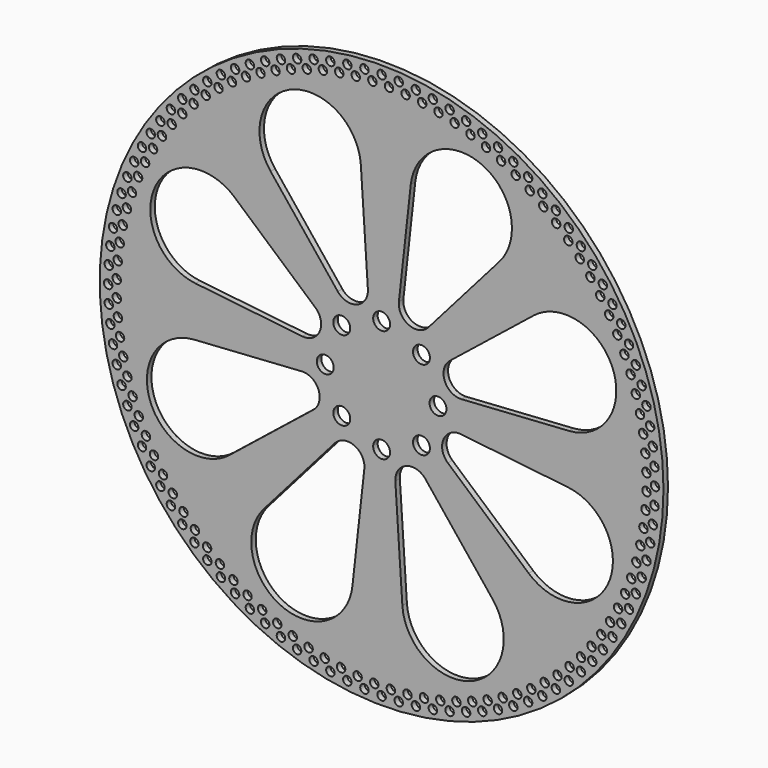
from build123d import *

# Parameters (mm, degrees)
F0_R     = 100
F0_R_2   = 1.5
F0_R_3   = 3
F1_DEPTH = 2


with BuildPart() as f1:
    # F0 (on Front) → F1 (new body)
    with BuildSketch(Plane.XZ):
        Circle(F0_R)
        with Locations((-51.975199, -81.899809)):
            Circle(F0_R_2, mode=Mode.SUBTRACT)
        with Locations((-57.015169, -78.474648)):
            Circle(F0_R_2, mode=Mode.SUBTRACT)
        with Locations((-52.564133, -77.929532)):
            Circle(F0_R_2, mode=Mode.SUBTRACT)
        with Locations((-78.474648, -57.015169)):
            Circle(F0_R_2, mode=Mode.SUBTRACT)
        with Locations((-81.899809, -51.975199)):
            Circle(F0_R_2, mode=Mode.SUBTRACT)
        with Locations((-77.560669, -53.106898)):
            Circle(F0_R_2, mode=Mode.SUBTRACT)
        with Locations((-66.401069, -70.709957)):
            Circle(F0_R_2, mode=Mode.SUBTRACT)
        with Locations((-70.709957, -66.401069)):
            Circle(F0_R_2, mode=Mode.SUBTRACT)
        with Locations((-66.235616, -66.699649)):
            Circle(F0_R_2, mode=Mode.SUBTRACT)
        with Locations((-61.830127, -74.739785)):
            Circle(F0_R_2, mode=Mode.SUBTRACT)
        with Locations((-57.353645, -74.475226)):
            Circle(F0_R_2, mode=Mode.SUBTRACT)
        with Locations((-61.916809, -70.727001)):
            Circle(F0_R_2, mode=Mode.SUBTRACT)
        with Locations((-74.739785, -61.830127)):
            Circle(F0_R_2, mode=Mode.SUBTRACT)
        with Locations((-70.293021, -62.409064)):
            Circle(F0_R_2, mode=Mode.SUBTRACT)
        with Locations((-74.073011, -57.872179)):
            Circle(F0_R_2, mode=Mode.SUBTRACT)
        with Locations((-41.300591, -87.768224)):
            Circle(F0_R_2, mode=Mode.SUBTRACT)
        with Locations((-35.708082, -90.188319)):
            Circle(F0_R_2, mode=Mode.SUBTRACT)
        with Locations((-31.532448, -88.553401)):
            Circle(F0_R_2, mode=Mode.SUBTRACT)
        with Locations((-29.974648, -92.252482)):
            Circle(F0_R_2, mode=Mode.SUBTRACT)
        with Locations((-25.909911, -90.358599)):
            Circle(F0_R_2, mode=Mode.SUBTRACT)
        with Locations((-46.730106, -85.001748)):
            Circle(F0_R_2, mode=Mode.SUBTRACT)
        with Locations((-42.382489, -83.903067)):
            Circle(F0_R_2, mode=Mode.SUBTRACT)
        with Locations((-47.567174, -81.076285)):
            Circle(F0_R_2, mode=Mode.SUBTRACT)
        with Locations((-37.03054, -86.398722)):
            Circle(F0_R_2, mode=Mode.SUBTRACT)
        with Locations((-24.122919, -93.952567)):
            Circle(F0_R_2, mode=Mode.SUBTRACT)
        with Locations((-18.175988, -95.281863)):
            Circle(F0_R_2, mode=Mode.SUBTRACT)
        with Locations((-20.185121, -91.807194)):
            Circle(F0_R_2, mode=Mode.SUBTRACT)
        with Locations((-14.380669, -92.893468)):
            Circle(F0_R_2, mode=Mode.SUBTRACT)
        with Locations((-12.157324, -96.235126)):
            Circle(F0_R_2, mode=Mode.SUBTRACT)
        with Locations((-6.09068, -96.808593)):
            Circle(F0_R_2, mode=Mode.SUBTRACT)
        with Locations((-2.624634, -93.963351)):
            Circle(F0_R_2, mode=Mode.SUBTRACT)
        with Locations((-8.519463, -93.613133)):
            Circle(F0_R_2, mode=Mode.SUBTRACT)
        with BuildLine():
            ThreePointArc((-16.611307, -23.496052), (-9.679885, -21.961326), (-6.136422, -28.113063))
            Line((-6.136422, -28.113063), (-10.342696, -66.038085))
            ThreePointArc((-10.342696, -66.038085), (-35.492911, -80.524861), (-41.767351, -52.187052))
            Line((-41.767351, -52.187052), (-16.611307, -23.496052))
        make_face(mode=Mode.SUBTRACT)
        with Locations((-87.768224, -41.300591)):
            Circle(F0_R_2, mode=Mode.SUBTRACT)
        with Locations((-85.001748, -46.730106)):
            Circle(F0_R_2, mode=Mode.SUBTRACT)
        with Locations((-80.74223, -48.132029)):
            Circle(F0_R_2, mode=Mode.SUBTRACT)
        with Locations((-83.605139, -42.967205)):
            Circle(F0_R_2, mode=Mode.SUBTRACT)
        with Locations((-86.138097, -37.632809)):
            Circle(F0_R_2, mode=Mode.SUBTRACT)
        with Locations((-90.188319, -35.708082)):
            Circle(F0_R_2, mode=Mode.SUBTRACT)
        with Locations((-88.331106, -32.149893)):
            Circle(F0_R_2, mode=Mode.SUBTRACT)
        with Locations((-92.252482, -29.974648)):
            Circle(F0_R_2, mode=Mode.SUBTRACT)
        with Locations((-90.175514, -26.540097)):
            Circle(F0_R_2, mode=Mode.SUBTRACT)
        with Locations((-93.952567, -24.122919)):
            Circle(F0_R_2, mode=Mode.SUBTRACT)
        with Locations((-91.664039, -20.825559)):
            Circle(F0_R_2, mode=Mode.SUBTRACT)
        with Locations((-95.281863, -18.175988)):
            Circle(F0_R_2, mode=Mode.SUBTRACT)
        with Locations((-92.790809, -15.028832)):
            Circle(F0_R_2, mode=Mode.SUBTRACT)
        with Locations((-96.235126, -12.157324)):
            Circle(F0_R_2, mode=Mode.SUBTRACT)
        with Locations((-93.551376, -9.172793)):
            Circle(F0_R_2, mode=Mode.SUBTRACT)
        with Locations((-96.808593, -6.09068)):
            Circle(F0_R_2, mode=Mode.SUBTRACT)
        with Locations((-93.942738, -3.280553)):
            Circle(F0_R_2, mode=Mode.SUBTRACT)
        with BuildLine():
            ThreePointArc((-28.360186, -4.86825), (-22.373715, -8.68429), (-24.218043, -15.539832))
            Line((-24.218043, -15.539832), (-54.009368, -39.382587))
            ThreePointArc((-54.009368, -39.382587), (-82.036953, -31.842397), (-66.435795, -7.367842))
            Line((-66.435795, -7.367842), (-28.360186, -4.86825))
        make_face(mode=Mode.SUBTRACT)
        with Locations((-14.142136, -14.142136)):
            Circle(F0_R_3, mode=Mode.SUBTRACT)
        with Locations((0, -97)):
            Circle(F0_R_2, mode=Mode.SUBTRACT)
        with Locations((6.09068, -96.808593)):
            Circle(F0_R_2, mode=Mode.SUBTRACT)
        with Locations((3.280553, -93.942738)):
            Circle(F0_R_2, mode=Mode.SUBTRACT)
        with Locations((12.157324, -96.235126)):
            Circle(F0_R_2, mode=Mode.SUBTRACT)
        with Locations((9.172793, -93.551376)):
            Circle(F0_R_2, mode=Mode.SUBTRACT)
        with Locations((18.175988, -95.281863)):
            Circle(F0_R_2, mode=Mode.SUBTRACT)
        with Locations((24.122919, -93.952567)):
            Circle(F0_R_2, mode=Mode.SUBTRACT)
        with Locations((15.028832, -92.790809)):
            Circle(F0_R_2, mode=Mode.SUBTRACT)
        with Locations((20.825559, -91.664039)):
            Circle(F0_R_2, mode=Mode.SUBTRACT)
        with Locations((29.974648, -92.252482)):
            Circle(F0_R_2, mode=Mode.SUBTRACT)
        with Locations((26.540097, -90.175514)):
            Circle(F0_R_2, mode=Mode.SUBTRACT)
        with Locations((32.149893, -88.331106)):
            Circle(F0_R_2, mode=Mode.SUBTRACT)
        with Locations((35.708082, -90.188319)):
            Circle(F0_R_2, mode=Mode.SUBTRACT)
        with Locations((41.300591, -87.768224)):
            Circle(F0_R_2, mode=Mode.SUBTRACT)
        with Locations((37.632809, -86.138097)):
            Circle(F0_R_2, mode=Mode.SUBTRACT)
        with Locations((42.967205, -83.605139)):
            Circle(F0_R_2, mode=Mode.SUBTRACT)
        with Locations((46.730106, -85.001748)):
            Circle(F0_R_2, mode=Mode.SUBTRACT)
        with Locations((48.132029, -80.74223)):
            Circle(F0_R_2, mode=Mode.SUBTRACT)
        with BuildLine():
            ThreePointArc((4.86825, -28.360186), (8.68429, -22.373715), (15.539832, -24.218043))
            Line((15.539832, -24.218043), (39.382587, -54.009368))
            ThreePointArc((39.382587, -54.009368), (31.842397, -82.036953), (7.367842, -66.435795))
            Line((7.367842, -66.435795), (4.86825, -28.360186))
        make_face(mode=Mode.SUBTRACT)
        with Locations((51.975199, -81.899809)):
            Circle(F0_R_2, mode=Mode.SUBTRACT)
        with Locations((53.106898, -77.560669)):
            Circle(F0_R_2, mode=Mode.SUBTRACT)
        with Locations((57.015169, -78.474648)):
            Circle(F0_R_2, mode=Mode.SUBTRACT)
        with Locations((57.872179, -74.073011)):
            Circle(F0_R_2, mode=Mode.SUBTRACT)
        with Locations((61.830127, -74.739785)):
            Circle(F0_R_2, mode=Mode.SUBTRACT)
        with Locations((62.409064, -70.293021)):
            Circle(F0_R_2, mode=Mode.SUBTRACT)
        with Locations((66.401069, -70.709957)):
            Circle(F0_R_2, mode=Mode.SUBTRACT)
        with Locations((66.699649, -66.235616)):
            Circle(F0_R_2, mode=Mode.SUBTRACT)
        with Locations((70.709957, -66.401069)):
            Circle(F0_R_2, mode=Mode.SUBTRACT)
        with Locations((70.727001, -61.916809)):
            Circle(F0_R_2, mode=Mode.SUBTRACT)
        with Locations((74.739785, -61.830127)):
            Circle(F0_R_2, mode=Mode.SUBTRACT)
        with Locations((74.475226, -57.353645)):
            Circle(F0_R_2, mode=Mode.SUBTRACT)
        with Locations((78.474648, -57.015169)):
            Circle(F0_R_2, mode=Mode.SUBTRACT)
        with Locations((77.929532, -52.564133)):
            Circle(F0_R_2, mode=Mode.SUBTRACT)
        with Locations((81.899809, -51.975199)):
            Circle(F0_R_2, mode=Mode.SUBTRACT)
        with Locations((0, -20)):
            Circle(F0_R_3, mode=Mode.SUBTRACT)
        with Locations((14.142136, -14.142136)):
            Circle(F0_R_3, mode=Mode.SUBTRACT)
        with BuildLine():
            ThreePointArc((23.496052, -16.611307), (21.961326, -9.679885), (28.113063, -6.136422))
            Line((28.113063, -6.136422), (66.038085, -10.342696))
            ThreePointArc((66.038085, -10.342696), (80.524861, -35.492911), (52.187052, -41.767351))
            Line((52.187052, -41.767351), (23.496052, -16.611307))
        make_face(mode=Mode.SUBTRACT)
        with Locations((81.076285, -47.567174)):
            Circle(F0_R_2, mode=Mode.SUBTRACT)
        with Locations((85.001748, -46.730106)):
            Circle(F0_R_2, mode=Mode.SUBTRACT)
        with Locations((83.903067, -42.382489)):
            Circle(F0_R_2, mode=Mode.SUBTRACT)
        with Locations((87.768224, -41.300591)):
            Circle(F0_R_2, mode=Mode.SUBTRACT)
        with Locations((86.398722, -37.03054)):
            Circle(F0_R_2, mode=Mode.SUBTRACT)
        with Locations((90.188319, -35.708082)):
            Circle(F0_R_2, mode=Mode.SUBTRACT)
        with Locations((88.553401, -31.532448)):
            Circle(F0_R_2, mode=Mode.SUBTRACT)
        with Locations((92.252482, -29.974648)):
            Circle(F0_R_2, mode=Mode.SUBTRACT)
        with Locations((90.358599, -25.909911)):
            Circle(F0_R_2, mode=Mode.SUBTRACT)
        with Locations((91.807194, -20.185121)):
            Circle(F0_R_2, mode=Mode.SUBTRACT)
        with Locations((93.952567, -24.122919)):
            Circle(F0_R_2, mode=Mode.SUBTRACT)
        with Locations((92.893468, -14.380669)):
            Circle(F0_R_2, mode=Mode.SUBTRACT)
        with Locations((95.281863, -18.175988)):
            Circle(F0_R_2, mode=Mode.SUBTRACT)
        with Locations((93.613133, -8.519463)):
            Circle(F0_R_2, mode=Mode.SUBTRACT)
        with Locations((96.235126, -12.157324)):
            Circle(F0_R_2, mode=Mode.SUBTRACT)
        with Locations((96.808593, -6.09068)):
            Circle(F0_R_2, mode=Mode.SUBTRACT)
        with Locations((93.963351, -2.624634)):
            Circle(F0_R_2, mode=Mode.SUBTRACT)
        with Locations((-97, 0)):
            Circle(F0_R_2, mode=Mode.SUBTRACT)
        with Locations((-93.963351, 2.624634)):
            Circle(F0_R_2, mode=Mode.SUBTRACT)
        with Locations((-96.808593, 6.09068)):
            Circle(F0_R_2, mode=Mode.SUBTRACT)
        with Locations((-96.235126, 12.157324)):
            Circle(F0_R_2, mode=Mode.SUBTRACT)
        with Locations((-93.613133, 8.519463)):
            Circle(F0_R_2, mode=Mode.SUBTRACT)
        with Locations((-95.281863, 18.175988)):
            Circle(F0_R_2, mode=Mode.SUBTRACT)
        with Locations((-92.893468, 14.380669)):
            Circle(F0_R_2, mode=Mode.SUBTRACT)
        with Locations((-93.952567, 24.122919)):
            Circle(F0_R_2, mode=Mode.SUBTRACT)
        with Locations((-91.807194, 20.185121)):
            Circle(F0_R_2, mode=Mode.SUBTRACT)
        with Locations((-90.358599, 25.909911)):
            Circle(F0_R_2, mode=Mode.SUBTRACT)
        with Locations((-92.252482, 29.974648)):
            Circle(F0_R_2, mode=Mode.SUBTRACT)
        with Locations((-88.553401, 31.532448)):
            Circle(F0_R_2, mode=Mode.SUBTRACT)
        with Locations((-90.188319, 35.708082)):
            Circle(F0_R_2, mode=Mode.SUBTRACT)
        with Locations((-86.398722, 37.03054)):
            Circle(F0_R_2, mode=Mode.SUBTRACT)
        with Locations((-87.768224, 41.300591)):
            Circle(F0_R_2, mode=Mode.SUBTRACT)
        with Locations((-83.903067, 42.382489)):
            Circle(F0_R_2, mode=Mode.SUBTRACT)
        with Locations((-85.001748, 46.730106)):
            Circle(F0_R_2, mode=Mode.SUBTRACT)
        with Locations((-81.076285, 47.567174)):
            Circle(F0_R_2, mode=Mode.SUBTRACT)
        with BuildLine():
            ThreePointArc((-23.496052, 16.611307), (-21.961326, 9.679885), (-28.113063, 6.136422))
            Line((-28.113063, 6.136422), (-66.038085, 10.342696))
            ThreePointArc((-66.038085, 10.342696), (-80.524861, 35.492911), (-52.187052, 41.767351))
            Line((-52.187052, 41.767351), (-23.496052, 16.611307))
        make_face(mode=Mode.SUBTRACT)
        with Locations((-20, 0)):
            Circle(F0_R_3, mode=Mode.SUBTRACT)
        with Locations((-14.142136, 14.142136)):
            Circle(F0_R_3, mode=Mode.SUBTRACT)
        with Locations((-81.899809, 51.975199)):
            Circle(F0_R_2, mode=Mode.SUBTRACT)
        with Locations((-77.929532, 52.564133)):
            Circle(F0_R_2, mode=Mode.SUBTRACT)
        with Locations((-78.474648, 57.015169)):
            Circle(F0_R_2, mode=Mode.SUBTRACT)
        with Locations((-74.475226, 57.353645)):
            Circle(F0_R_2, mode=Mode.SUBTRACT)
        with Locations((-74.739785, 61.830127)):
            Circle(F0_R_2, mode=Mode.SUBTRACT)
        with Locations((-70.727001, 61.916809)):
            Circle(F0_R_2, mode=Mode.SUBTRACT)
        with Locations((-70.709957, 66.401069)):
            Circle(F0_R_2, mode=Mode.SUBTRACT)
        with Locations((-66.699649, 66.235616)):
            Circle(F0_R_2, mode=Mode.SUBTRACT)
        with Locations((-66.401069, 70.709957)):
            Circle(F0_R_2, mode=Mode.SUBTRACT)
        with Locations((-62.409064, 70.293021)):
            Circle(F0_R_2, mode=Mode.SUBTRACT)
        with Locations((-61.830127, 74.739785)):
            Circle(F0_R_2, mode=Mode.SUBTRACT)
        with Locations((-57.872179, 74.073011)):
            Circle(F0_R_2, mode=Mode.SUBTRACT)
        with Locations((-57.015169, 78.474648)):
            Circle(F0_R_2, mode=Mode.SUBTRACT)
        with Locations((-53.106898, 77.560669)):
            Circle(F0_R_2, mode=Mode.SUBTRACT)
        with Locations((-51.975199, 81.899809)):
            Circle(F0_R_2, mode=Mode.SUBTRACT)
        with BuildLine():
            ThreePointArc((-4.86825, 28.360186), (-8.68429, 22.373715), (-15.539832, 24.218043))
            Line((-15.539832, 24.218043), (-39.382587, 54.009368))
            ThreePointArc((-39.382587, 54.009368), (-31.842397, 82.036953), (-7.367842, 66.435795))
            Line((-7.367842, 66.435795), (-4.86825, 28.360186))
        make_face(mode=Mode.SUBTRACT)
        with Locations((-48.132029, 80.74223)):
            Circle(F0_R_2, mode=Mode.SUBTRACT)
        with Locations((-46.730106, 85.001748)):
            Circle(F0_R_2, mode=Mode.SUBTRACT)
        with Locations((-42.967205, 83.605139)):
            Circle(F0_R_2, mode=Mode.SUBTRACT)
        with Locations((-37.632809, 86.138097)):
            Circle(F0_R_2, mode=Mode.SUBTRACT)
        with Locations((-41.300591, 87.768224)):
            Circle(F0_R_2, mode=Mode.SUBTRACT)
        with Locations((-35.708082, 90.188319)):
            Circle(F0_R_2, mode=Mode.SUBTRACT)
        with Locations((-32.149893, 88.331106)):
            Circle(F0_R_2, mode=Mode.SUBTRACT)
        with Locations((-26.540097, 90.175514)):
            Circle(F0_R_2, mode=Mode.SUBTRACT)
        with Locations((-29.974648, 92.252482)):
            Circle(F0_R_2, mode=Mode.SUBTRACT)
        with Locations((-20.825559, 91.664039)):
            Circle(F0_R_2, mode=Mode.SUBTRACT)
        with Locations((-15.028832, 92.790809)):
            Circle(F0_R_2, mode=Mode.SUBTRACT)
        with Locations((-24.122919, 93.952567)):
            Circle(F0_R_2, mode=Mode.SUBTRACT)
        with Locations((-18.175988, 95.281863)):
            Circle(F0_R_2, mode=Mode.SUBTRACT)
        with Locations((-9.172793, 93.551376)):
            Circle(F0_R_2, mode=Mode.SUBTRACT)
        with Locations((-12.157324, 96.235126)):
            Circle(F0_R_2, mode=Mode.SUBTRACT)
        with Locations((-3.280553, 93.942738)):
            Circle(F0_R_2, mode=Mode.SUBTRACT)
        with Locations((-6.09068, 96.808593)):
            Circle(F0_R_2, mode=Mode.SUBTRACT)
        with Locations((20, 0)):
            Circle(F0_R_3, mode=Mode.SUBTRACT)
        with Locations((0, 20)):
            Circle(F0_R_3, mode=Mode.SUBTRACT)
        with Locations((14.142136, 14.142136)):
            Circle(F0_R_3, mode=Mode.SUBTRACT)
        with BuildLine():
            ThreePointArc((28.360186, 4.86825), (22.373715, 8.68429), (24.218043, 15.539832))
            Line((24.218043, 15.539832), (54.009368, 39.382587))
            ThreePointArc((54.009368, 39.382587), (82.036953, 31.842397), (66.435795, 7.367842))
            Line((66.435795, 7.367842), (28.360186, 4.86825))
        make_face(mode=Mode.SUBTRACT)
        with Locations((97, 0)):
            Circle(F0_R_2, mode=Mode.SUBTRACT)
        with Locations((93.942738, 3.280553)):
            Circle(F0_R_2, mode=Mode.SUBTRACT)
        with Locations((96.808593, 6.09068)):
            Circle(F0_R_2, mode=Mode.SUBTRACT)
        with Locations((93.551376, 9.172793)):
            Circle(F0_R_2, mode=Mode.SUBTRACT)
        with Locations((96.235126, 12.157324)):
            Circle(F0_R_2, mode=Mode.SUBTRACT)
        with Locations((92.790809, 15.028832)):
            Circle(F0_R_2, mode=Mode.SUBTRACT)
        with Locations((95.281863, 18.175988)):
            Circle(F0_R_2, mode=Mode.SUBTRACT)
        with Locations((91.664039, 20.825559)):
            Circle(F0_R_2, mode=Mode.SUBTRACT)
        with Locations((93.952567, 24.122919)):
            Circle(F0_R_2, mode=Mode.SUBTRACT)
        with Locations((90.175514, 26.540097)):
            Circle(F0_R_2, mode=Mode.SUBTRACT)
        with Locations((92.252482, 29.974648)):
            Circle(F0_R_2, mode=Mode.SUBTRACT)
        with Locations((88.331106, 32.149893)):
            Circle(F0_R_2, mode=Mode.SUBTRACT)
        with Locations((90.188319, 35.708082)):
            Circle(F0_R_2, mode=Mode.SUBTRACT)
        with Locations((86.138097, 37.632809)):
            Circle(F0_R_2, mode=Mode.SUBTRACT)
        with Locations((83.605139, 42.967205)):
            Circle(F0_R_2, mode=Mode.SUBTRACT)
        with Locations((80.74223, 48.132029)):
            Circle(F0_R_2, mode=Mode.SUBTRACT)
        with Locations((85.001748, 46.730106)):
            Circle(F0_R_2, mode=Mode.SUBTRACT)
        with Locations((87.768224, 41.300591)):
            Circle(F0_R_2, mode=Mode.SUBTRACT)
        with BuildLine():
            ThreePointArc((16.611307, 23.496052), (9.679885, 21.961326), (6.136422, 28.113063))
            Line((6.136422, 28.113063), (10.342696, 66.038085))
            ThreePointArc((10.342696, 66.038085), (35.492911, 80.524861), (41.767351, 52.187052))
            Line((41.767351, 52.187052), (16.611307, 23.496052))
        make_face(mode=Mode.SUBTRACT)
        with Locations((8.519463, 93.613133)):
            Circle(F0_R_2, mode=Mode.SUBTRACT)
        with Locations((2.624634, 93.963351)):
            Circle(F0_R_2, mode=Mode.SUBTRACT)
        with Locations((6.09068, 96.808593)):
            Circle(F0_R_2, mode=Mode.SUBTRACT)
        with Locations((0, 97)):
            Circle(F0_R_2, mode=Mode.SUBTRACT)
        with Locations((12.157324, 96.235126)):
            Circle(F0_R_2, mode=Mode.SUBTRACT)
        with Locations((14.380669, 92.893468)):
            Circle(F0_R_2, mode=Mode.SUBTRACT)
        with Locations((20.185121, 91.807194)):
            Circle(F0_R_2, mode=Mode.SUBTRACT)
        with Locations((18.175988, 95.281863)):
            Circle(F0_R_2, mode=Mode.SUBTRACT)
        with Locations((24.122919, 93.952567)):
            Circle(F0_R_2, mode=Mode.SUBTRACT)
        with Locations((37.03054, 86.398722)):
            Circle(F0_R_2, mode=Mode.SUBTRACT)
        with Locations((47.567174, 81.076285)):
            Circle(F0_R_2, mode=Mode.SUBTRACT)
        with Locations((42.382489, 83.903067)):
            Circle(F0_R_2, mode=Mode.SUBTRACT)
        with Locations((46.730106, 85.001748)):
            Circle(F0_R_2, mode=Mode.SUBTRACT)
        with Locations((25.909911, 90.358599)):
            Circle(F0_R_2, mode=Mode.SUBTRACT)
        with Locations((29.974648, 92.252482)):
            Circle(F0_R_2, mode=Mode.SUBTRACT)
        with Locations((31.532448, 88.553401)):
            Circle(F0_R_2, mode=Mode.SUBTRACT)
        with Locations((35.708082, 90.188319)):
            Circle(F0_R_2, mode=Mode.SUBTRACT)
        with Locations((41.300591, 87.768224)):
            Circle(F0_R_2, mode=Mode.SUBTRACT)
        with Locations((74.073011, 57.872179)):
            Circle(F0_R_2, mode=Mode.SUBTRACT)
        with Locations((70.293021, 62.409064)):
            Circle(F0_R_2, mode=Mode.SUBTRACT)
        with Locations((74.739785, 61.830127)):
            Circle(F0_R_2, mode=Mode.SUBTRACT)
        with Locations((61.916809, 70.727001)):
            Circle(F0_R_2, mode=Mode.SUBTRACT)
        with Locations((57.353645, 74.475226)):
            Circle(F0_R_2, mode=Mode.SUBTRACT)
        with Locations((61.830127, 74.739785)):
            Circle(F0_R_2, mode=Mode.SUBTRACT)
        with Locations((66.235616, 66.699649)):
            Circle(F0_R_2, mode=Mode.SUBTRACT)
        with Locations((70.709957, 66.401069)):
            Circle(F0_R_2, mode=Mode.SUBTRACT)
        with Locations((66.401069, 70.709957)):
            Circle(F0_R_2, mode=Mode.SUBTRACT)
        with Locations((77.560669, 53.106898)):
            Circle(F0_R_2, mode=Mode.SUBTRACT)
        with Locations((81.899809, 51.975199)):
            Circle(F0_R_2, mode=Mode.SUBTRACT)
        with Locations((78.474648, 57.015169)):
            Circle(F0_R_2, mode=Mode.SUBTRACT)
        with Locations((52.564133, 77.929532)):
            Circle(F0_R_2, mode=Mode.SUBTRACT)
        with Locations((57.015169, 78.474648)):
            Circle(F0_R_2, mode=Mode.SUBTRACT)
        with Locations((51.975199, 81.899809)):
            Circle(F0_R_2, mode=Mode.SUBTRACT)
    extrude(amount=F1_DEPTH)


solid = f1.part
